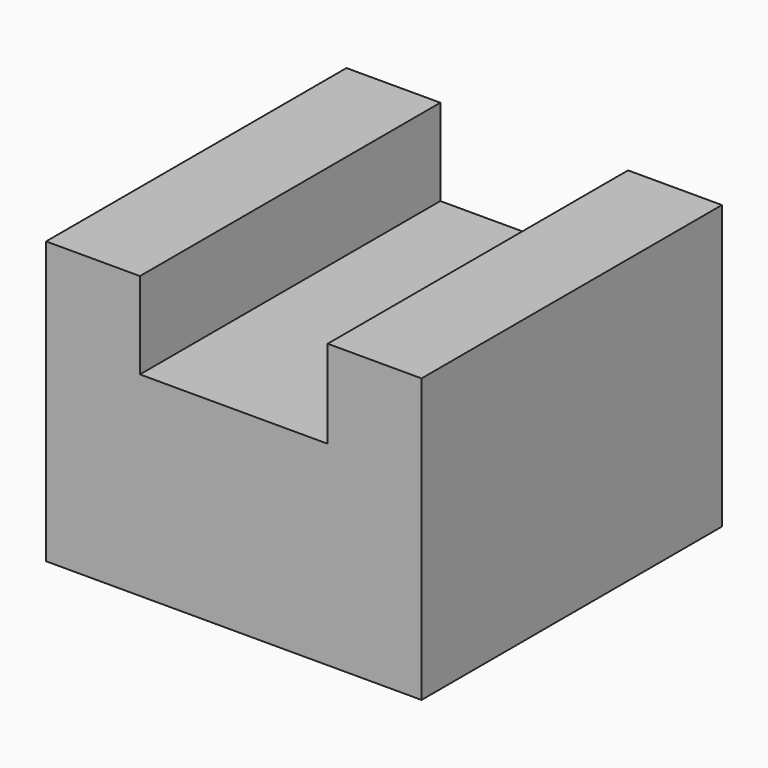
from build123d import *

# Parameters (mm, degrees)
F1_DEPTH      = 25.4
F1_DEPTH_BACK = 25.4


with BuildPart() as f1:
    # F0 (on Front) → F1 (new body, two sides)
    with BuildSketch(Plane.XZ) as f1_sk:
        Polygon((0, 38.1), (0, 0), (50.8, 0), (50.8, 38.30266), (38.1, 38.30266), (38.1, 26.386276), (12.7, 26.386276), (12.7, 38.1), align=None)
    extrude(amount=F1_DEPTH)
    extrude(f1_sk.sketch, amount=-F1_DEPTH_BACK)


solid = f1.part
